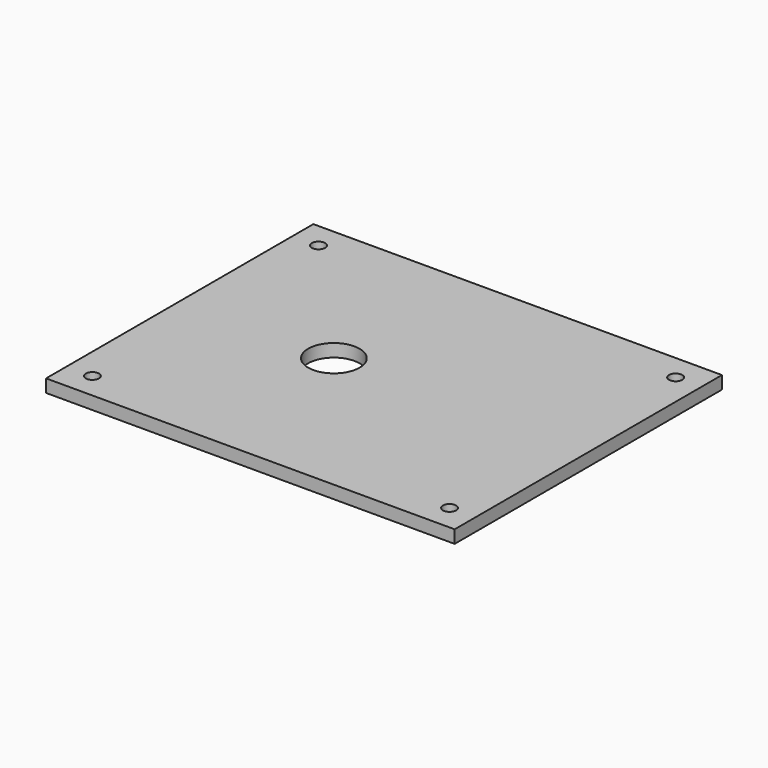
from build123d import *

# Parameters (mm, degrees)
F0_W     = 201.93
F0_H     = 165.1
F0_R     = 3.27025
F0_R_2   = 12.7
F1_DEPTH = 6.35


with BuildPart() as f1:
    # F0 (on Top) → F1 (new body)
    with BuildSketch(Plane.XY):
        Rectangle(F0_W, F0_H)
        with Locations((-88.265, -69.85)):
            Circle(F0_R, mode=Mode.SUBTRACT)
        with Locations((88.265, -69.85)):
            Circle(F0_R, mode=Mode.SUBTRACT)
        with Locations((-24.765, 0)):
            Circle(F0_R_2, mode=Mode.SUBTRACT)
        with Locations((-88.265, 69.85)):
            Circle(F0_R, mode=Mode.SUBTRACT)
        with Locations((88.265, 69.85)):
            Circle(F0_R, mode=Mode.SUBTRACT)
    extrude(amount=F1_DEPTH)


solid = f1.part
